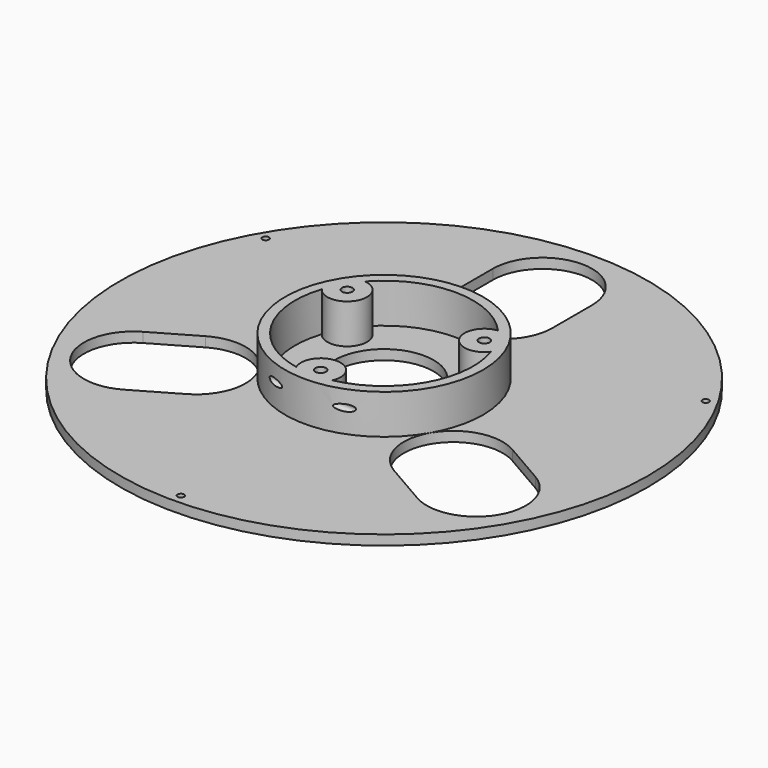
from build123d import *

# Parameters (mm, degrees)
SKETCH_R             = 80
SKETCH_R_2           = 15
SKETCH_R_3           = 1
PAD_DEPTH            = 3
SKETCH001_R          = 30
SKETCH001_R_2        = 27
PAD001_DEPTH         = 15
SKETCH002_R          = 6
PAD002_DEPTH         = 15
SKETCH004_R          = 1.6
POCKET_DEPTH         = 15.001
SKETCH003_R          = 4
POCKET001_DEPTH      = 3
SKETCH005_R          = 1
POCKET002_DEPTH      = 80.001
POCKET002_DEPTH_BACK = -80.001
POCKET003_DEPTH      = 6


with BuildPart() as part:
    # Sketch → Pad (new body)
    with BuildSketch(Plane.XY):
        Circle(SKETCH_R)
        Circle(SKETCH_R_2, mode=Mode.SUBTRACT)
        with Locations((-66.683956, 38.5)):
            Circle(SKETCH_R_3, mode=Mode.SUBTRACT)
        with Locations((66.683956, 38.5)):
            Circle(SKETCH_R_3, mode=Mode.SUBTRACT)
        with Locations((0, -77)):
            Circle(SKETCH_R_3, mode=Mode.SUBTRACT)
        with BuildLine():
            ThreePointArc((-15, 45), (0, 30), (15, 45))
            Line((15, 45), (15, 60))
            ThreePointArc((15, 60), (0, 75), (-15, 60))
            Line((-15, 45), (-15, 60))
        make_face(mode=Mode.SUBTRACT)
        with BuildLine():
            ThreePointArc((-31.471143, -35.490381), (-25.980762, -15), (-46.471143, -9.509619))
            Line((-46.471143, -9.509619), (-59.461524, -17.009619))
            ThreePointArc((-59.461524, -17.009619), (-64.951905, -37.5), (-44.461524, -42.990381))
            Line((-31.471143, -35.490381), (-44.461524, -42.990381))
        make_face(mode=Mode.SUBTRACT)
        with BuildLine():
            ThreePointArc((46.471143, -9.509619), (25.980762, -15), (31.471143, -35.490381))
            Line((31.471143, -35.490381), (44.461524, -42.990381))
            ThreePointArc((44.461524, -42.990381), (64.951905, -37.5), (59.461524, -17.009619))
            Line((46.471143, -9.509619), (59.461524, -17.009619))
        make_face(mode=Mode.SUBTRACT)
    extrude(amount=PAD_DEPTH)

    # Sketch001 → Pad001 (join)
    with BuildSketch(Plane.XY):
        Circle(SKETCH001_R)
        Circle(SKETCH001_R_2, mode=Mode.SUBTRACT)
    extrude(amount=PAD001_DEPTH)

    # Sketch002 → Pad002 (join)
    with BuildSketch(Plane.XY):
        with Locations((-20.78461, 12)):
            Circle(SKETCH002_R)
        with Locations((0, -24)):
            Circle(SKETCH002_R)
        with Locations((20.78461, 12)):
            Circle(SKETCH002_R)
    extrude(amount=PAD002_DEPTH)

    # Sketch004 → Pocket (cut, through all)
    with BuildSketch(Plane.XY):
        with Locations((-20.78461, 12)):
            Circle(SKETCH004_R)
        with Locations((20.78461, 12)):
            Circle(SKETCH004_R)
        with Locations((0, -24)):
            Circle(SKETCH004_R)
    extrude(amount=POCKET_DEPTH, mode=Mode.SUBTRACT)

    # Sketch003 → Pocket001 (cut)
    with BuildSketch(Plane.XY):
        with Locations((-20.78461, 12)):
            Circle(SKETCH003_R)
        with Locations((20.78461, 12)):
            Circle(SKETCH003_R)
        with Locations((0, -24)):
            Circle(SKETCH003_R)
    extrude(amount=POCKET001_DEPTH, mode=Mode.SUBTRACT)

    # Sketch005 → Pocket002 (cut, two sides)
    with BuildSketch(Plane.YZ) as pocket002_sk:
        with Locations((-28, 10)):
            Circle(SKETCH005_R)
    extrude(amount=-POCKET002_DEPTH, mode=Mode.SUBTRACT)
    extrude(pocket002_sk.sketch, amount=-POCKET002_DEPTH_BACK, mode=Mode.SUBTRACT)

    # Sketch006 → Pocket003 (cut)
    with BuildSketch(Plane.XY):
        Polygon((-17.90961, 10.340118), (-17.90961, 13.659882), (-20.78461, 15.319764), (-23.65961, 13.659882), (-23.65961, 10.340118), (-20.78461, 8.680236), align=None)
        Polygon((20.78461, 8.680236), (23.65961, 10.340118), (23.65961, 13.659882), (20.78461, 15.319764), (17.90961, 13.659882), (17.90961, 10.340118), align=None)
        Polygon((2.875, -25.659882), (2.875, -22.340118), (0, -20.680236), (-2.875, -22.340118), (-2.875, -25.659882), (0, -27.319764), align=None)
    extrude(amount=POCKET003_DEPTH, mode=Mode.SUBTRACT)


solid = part.part
